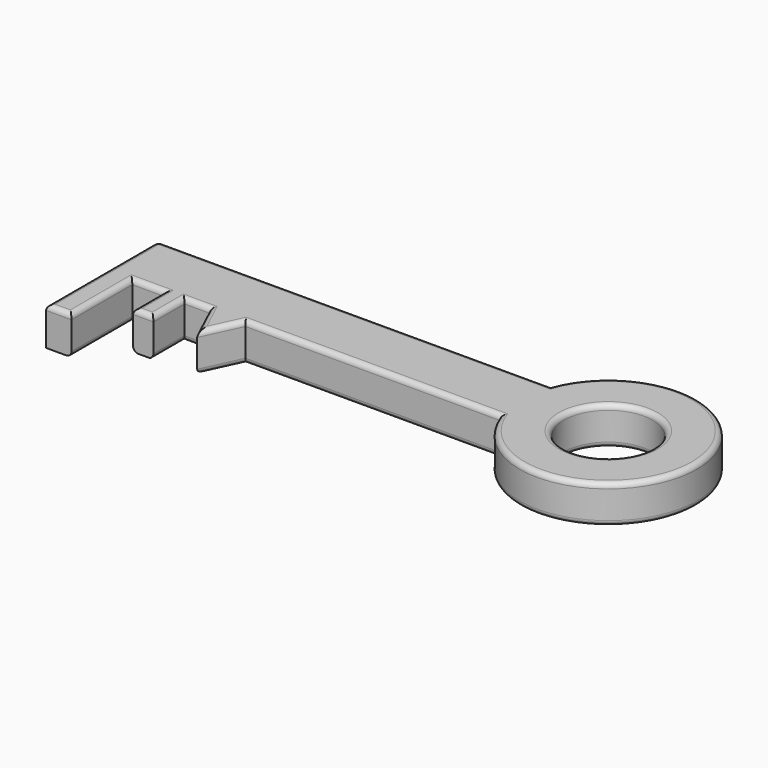
from build123d import *

# Parameters (mm, degrees)
F0_R     = 17.5
F0_W     = 8
F0_H     = 15.3430486098
F0_W_2   = 10
F0_H_2   = 30
F1_DEPTH = 15
F2_R     = 2


with BuildPart() as f1:
    # F0 (on Top) → F1 (new body)
    with BuildSketch(Plane.XY):
        with BuildLine():
            ThreePointArc((27.9129424838, 0), (95.6046845604, 12.5), (27.9129424838, 25))
            Line((27.9129424838, 25), (-127.0870575162, 25))
            Line((-127.0870575162, 25), (-127.0870575162, 0))
            Line((-127.0870575162, 0), (-117.0870575162, 0))
            Line((-117.0870575162, 0), (-104.4938835184, 0))
            Line((-104.4938835184, 0), (-96.4938835184, 0))
            Line((-96.4938835184, 0), (-86.4938835184, 0))
            Line((-86.4938835184, 0), (-72.4938835184, 0))
            Line((-72.4938835184, 0), (27.9129424838, 0))
        make_face()
        with Locations((60.6046845604, 12.5)):
            Circle(F0_R, mode=Mode.SUBTRACT)
        Polygon((-79.4938835184, -15.0000602999), (-72.4938835184, 0), (-86.4938835184, 0), align=None)
        with Locations((-100.4938835184, -7.6715243049)):
            Rectangle(F0_W, F0_H)
        with Locations((-122.0870575162, -15)):
            Rectangle(F0_W_2, F0_H_2)
    extrude(amount=F1_DEPTH)

    # F2
    f2_edges = [f1.edges().sort_by_distance(p)[0] for p in [
        (-127.087058, 25, 7.5),
        (-122.087058, -30, 15),
        (-100.493884, -15.343049, 15),
        (-82.993884, -7.50003, 15),
        (-75.993884, -7.50003, 15),
        (95.604685, 12.5, 15),
        (95.604685, 12.5, 0),
        (43.104685, 12.5, 0),
        (43.104685, 12.5, 15),
        (-49.587058, 25, 15),
        (-49.587058, 25, 0),
        (-22.290471, 0, 15),
        (-110.790471, 0, 15),
        (-91.493884, 0, 15),
        (-117.087058, -15, 15),
        (-127.087058, -2.5, 15),
        (-96.493884, -7.671524, 15),
        (-104.493884, -7.671524, 15),
        (-22.290471, 0, 0),
        (-82.993884, -7.50003, 0),
        (-75.993884, -7.50003, 0),
        (-91.493884, 0, 0),
        (-96.493884, -7.671524, 0),
        (-104.493884, -7.671524, 0),
        (-110.790471, 0, 0),
        (-117.087058, -15, 0),
    ]]
    fillet(f2_edges, radius=F2_R)


solid = f1.part
